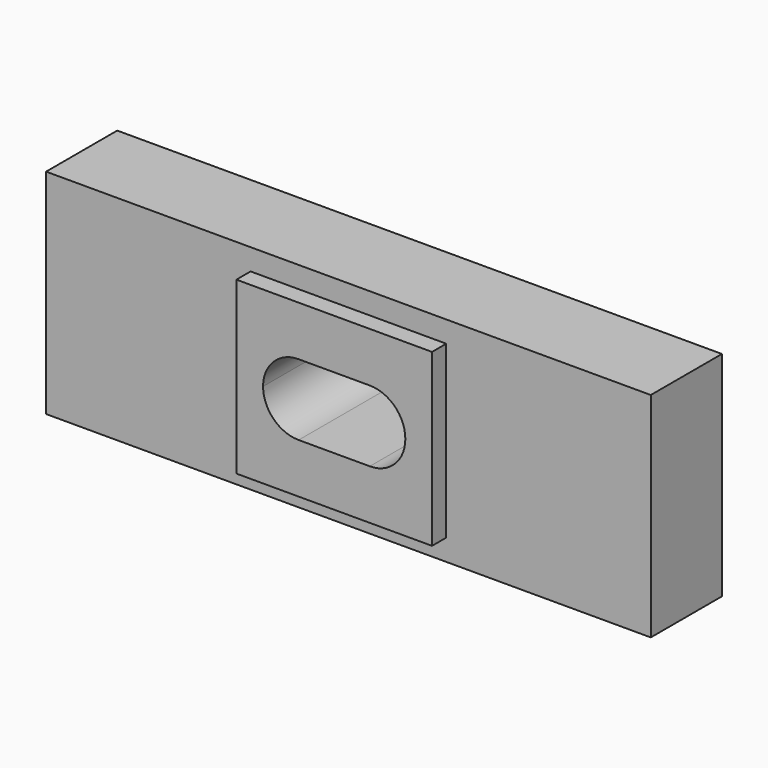
from build123d import *

# Parameters (mm, degrees)
F0_W     = 4318
F0_H     = 1524
F1_DEPTH = 635
F2_W     = 1397
F2_H     = 1219.2
F3_DEPTH = 127
F5_DEPTH = 762.001


with BuildPart() as f1:
    # F0 (on Front) → F1 (new body)
    with BuildSketch(Plane.XZ):
        Rectangle(F0_W, F0_H)
    extrude(amount=F1_DEPTH)

    # F2 (on face) → F3 (join)
    with BuildSketch(Plane.XZ.offset(635)):
        Rectangle(F2_W, F2_H)
    extrude(amount=F3_DEPTH)

    # F4 (on face) → F5 (cut, through all)
    with BuildSketch(Plane.XZ.offset(762)):
        with BuildLine():
            Line((-254, -254), (254, -254))
            ThreePointArc((254, -254), (433.605122, -179.605122), (508, 0))
            ThreePointArc((508, 0), (433.605122, 179.605122), (254, 254))
            Line((254, 254), (-254, 254))
            ThreePointArc((-254, 254), (-433.605122, 179.605122), (-508, 0))
            ThreePointArc((-508, 0), (-433.605122, -179.605122), (-254, -254))
        make_face()
    extrude(amount=-F5_DEPTH, mode=Mode.SUBTRACT)


solid = f1.part
